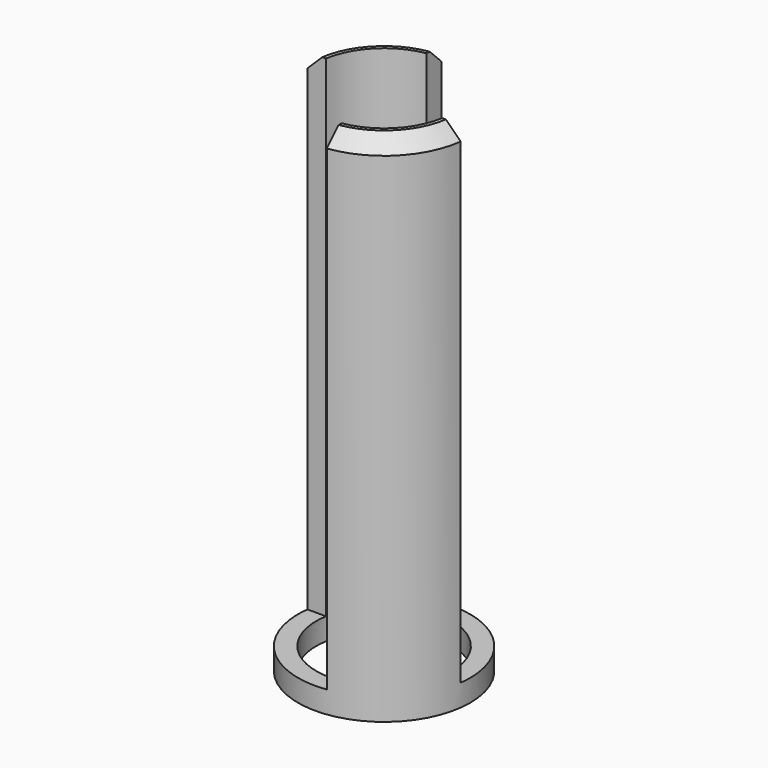
from build123d import *

# Parameters (mm, degrees)
SKETCH023_R             = 11.75
SKETCH023_R_2           = 9.25
PAD015_DEPTH            = 70
SKETCH025_W             = 31.48
SKETCH025_H             = 3
POCKET007_DEPTH         = 67
CHAMFER006_SIZE         = 2
SKETCH024_W             = 13.153862
SKETCH024_H             = 12.44
POCKET006_DEPTH         = 67
BODY013_PLACEMENT_ANGLE = 180


with BuildPart() as part:
    # Sketch023 → Pad015 (new body)
    with BuildSketch(Plane.XY):
        Circle(SKETCH023_R)
        Circle(SKETCH023_R_2, mode=Mode.SUBTRACT)
    extrude(amount=PAD015_DEPTH)

    # Sketch025 (on Face3 of Pad015) → Pocket007 (cut)
    with BuildSketch(Plane(origin=(0, 0, 0), x_dir=(1, 0, 0), z_dir=(0, 0, -1))):
        Rectangle(SKETCH025_W, SKETCH025_H)
    extrude(amount=-POCKET007_DEPTH, mode=Mode.SUBTRACT)

    # Chamfer006
    chamfer006_edges = [part.edges().sort_by_distance(p)[0] for p in [
        (0, 11.75, 0),
        (0, -11.75, 0),
    ]]
    chamfer(chamfer006_edges, length=CHAMFER006_SIZE)

    # Sketch024 (on Face11 of Chamfer006) → Pocket006 (cut)
    with BuildSketch(Plane(origin=(0, 0, 0), x_dir=(1, 0, 0), z_dir=(0, 0, -1))):
        with Locations((5.076931, 7.72)):
            Rectangle(SKETCH024_W, SKETCH024_H)
        with Locations((-5.076931, -7.72)):
            Rectangle(SKETCH024_W, SKETCH024_H)
    extrude(amount=-POCKET006_DEPTH, mode=Mode.SUBTRACT)


with BuildPart() as part_1:
    # Body013 placement: moved
    add(part.part.moved(Location((0, 0, 69))).rotate(Axis((0, 0, 69), (1, 0, 0)), BODY013_PLACEMENT_ANGLE))


solid = part_1.part
